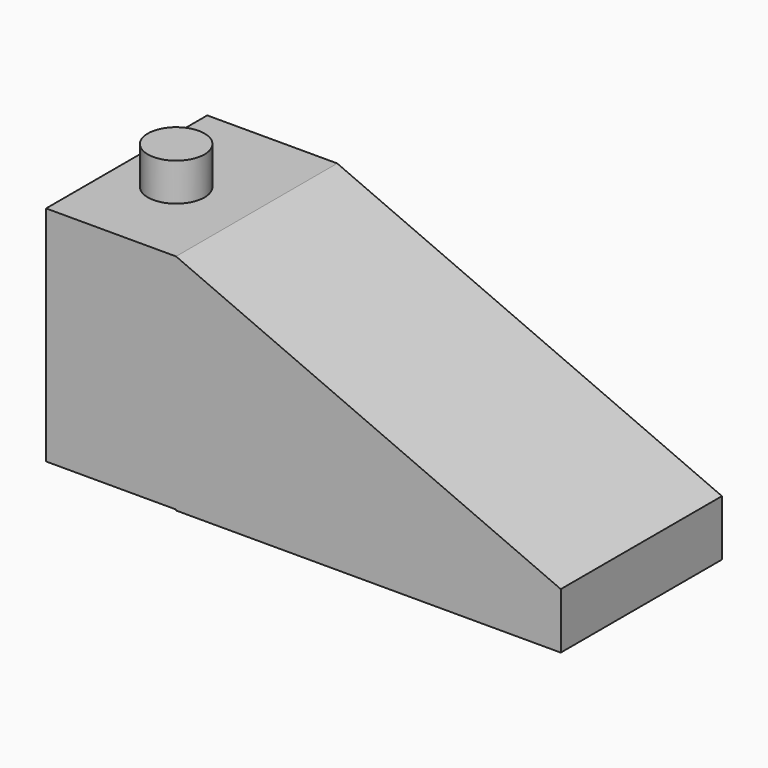
from build123d import *

# Parameters (mm, degrees)
F0_W     = 5
F0_H     = 8.571429
F1_DEPTH = 7.75
F3_DEPTH = 3.95
F5_DEPTH = 25
F6_W     = 1.201827
F6_H     = 7.746514
F7_DEPTH = 6
F8_DEPTH = 6


with BuildPart() as f1:
    # F0 (on Front) → F1 (new body)
    with BuildSketch(Plane.XZ):
        with Locations((1.341188, -1.791949)):
            Rectangle(F0_W, F0_H)
        Polygon((18.641188, -3.961869), (3.841188, 2.493765), (3.841188, -6.077664), (3.841188, -6.111869), (18.641188, -6.111869), align=None)
    extrude(amount=F1_DEPTH)

    # F2 (on Top) → F3 (join)
    with BuildSketch(Plane.XY):
        with BuildLine():
            ThreePointArc((-0.070193, -4.217616), (1.020355, -5.308165), (2.110904, -4.217616))
            ThreePointArc((2.110904, -4.217616), (1.020355, -3.127068), (-0.070193, -4.217616))
        make_face()
    extrude(amount=F3_DEPTH)

    # F4 (on Top) → F5 (cut)
    with BuildSketch(Plane.XY):
        Polygon((0, -1.442116), (0, -6.315767), (2.538758, -6.315767), (2.538758, -1.442116), (1.405665, -1.442116), align=None)
    extrude(amount=-F5_DEPTH, mode=Mode.SUBTRACT)

    # F6 (on Top) → F7 (join)
    with BuildSketch(Plane.XY):
        with Locations((3.216505, -3.873257)):
            Rectangle(F6_W, F6_H)
    extrude(amount=-F7_DEPTH)

    # F6 (on Top) → F8 (join)
    with BuildSketch(Plane.XY):
        with Locations((3.216505, -3.873257)):
            Rectangle(F6_W, F6_H)
    extrude(amount=-F8_DEPTH)


solid = f1.part
